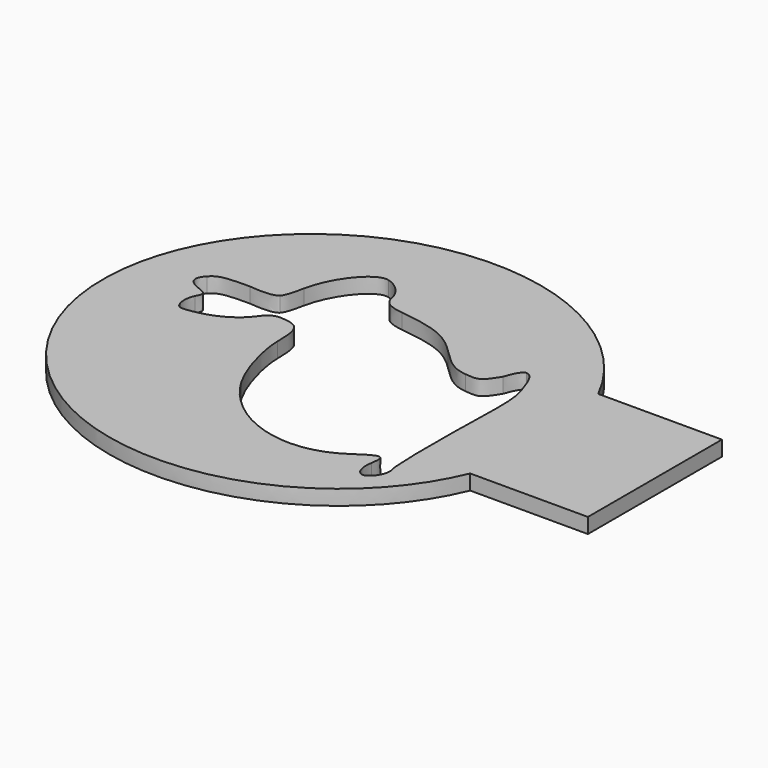
from build123d import *

# Parameters (mm, degrees)
EXTRUDE_DEPTH    = 2.25
EXTRUDE001_DEPTH = 2.25


with BuildPart() as extrude_body:
    # path2421 → Extrude (new body)
    with BuildSketch(Plane(origin=(32.471484, -37.678158, 0), x_dir=(0, -1, 0), z_dir=(0, 0, -1))):
        with BuildLine():
            add(Edge.make_bspline(
                [(19.264691, -23.428875), (21.168506, -22.095378), (19.882052, -20.613536), (17.198593, -21.049002)],
                knots=[0, 0, 0, 0, 1, 1, 1, 1], degree=3))
            add(Edge.make_bspline(
                [(17.198593, -21.049002), (14.811033, -21.436445), (14.78147, -20.89433), (17.013261, -17.65053)],
                knots=[0, 0, 0, 0, 1, 1, 1, 1], degree=3))
            add(Edge.make_bspline(
                [(17.013261, -17.65053), (21.648679, -10.913189), (18.779043, -1.218364), (10.74495, 3.526421)],
                knots=[0, 0, 0, 0, 1, 1, 1, 1], degree=3))
            add(Edge.make_bspline(
                [(10.74495, 3.526421), (7.901826, 5.205512), (3.046317, 6.622463), (0.061016, 6.644235)],
                knots=[0, 0, 0, 0, 1, 1, 1, 1], degree=3))
            add(Edge.make_bspline(
                [(0.061016, 6.644235), (-3.60211, 6.67095), (-4.482821, 7.160145), (-4.7335, 9.307351)],
                knots=[0, 0, 0, 0, 1, 1, 1, 1], degree=3))
            add(Edge.make_bspline(
                [(-4.7335, 9.307351), (-4.922772, 10.928654), (-4.674129, 11.494503), (-3.338526, 12.48196)],
                knots=[0, 0, 0, 0, 1, 1, 1, 1], degree=3))
            add(Edge.make_bspline(
                [(-3.338526, 12.48196), (-1.433746, 13.890222), (-0.195973, 16.085383), (0.35782, 19.037358)],
                knots=[0, 0, 0, 0, 1, 1, 1, 1], degree=3))
            add(Edge.make_bspline(
                [(0.35782, 19.037358), (0.697559, 20.848345), (0.581256, 21.209202), (-0.447396, 21.535687)],
                knots=[0, 0, 0, 0, 1, 1, 1, 1], degree=3))
            add(Edge.make_bspline(
                [(-0.447396, 21.535687), (-1.108666, 21.745563), (-2.188612, 21.628867), (-2.847279, 21.276362)],
                knots=[0, 0, 0, 0, 1, 1, 1, 1], degree=3))
            add(Edge.make_bspline(
                [(-2.847279, 21.276362), (-3.870577, 20.728711), (-4.123917, 20.84342), (-4.588209, 22.064589)],
                knots=[0, 0, 0, 0, 1, 1, 1, 1], degree=3))
            add(Edge.make_bspline(
                [(-4.588209, 22.064589), (-5.359215, 24.092484), (-6.273519, 24.464333), (-7.580484, 23.281542)],
                knots=[0, 0, 0, 0, 1, 1, 1, 1], degree=3))
            add(Edge.make_bspline(
                [(-7.580484, 23.281542), (-8.513051, 22.437579), (-8.71357, 21.464712), (-8.71357, 17.784037)],
                knots=[0, 0, 0, 0, 1, 1, 1, 1], degree=3))
            add(Edge.make_bspline(
                [(-8.71357, 17.784037), (-8.71357, 17.784037), (-8.286632, 14.42424), (-9.094313, 13.616561)],
                knots=[0, 0, 0, 0, 1, 1, 1, 1], degree=3))
            add(Edge.make_bspline(
                [(-9.094313, 13.616561), (-9.703504, 13.007371), (-12.222735, 12.587156), (-12.222735, 12.587156)],
                knots=[0, 0, 0, 0, 1, 1, 1, 1], degree=3))
            add(Edge.make_bspline(
                [(-12.222735, 12.587156), (-16.467676, 11.710382), (-20.594894, 8.342515), (-20.037321, 6.210356)],
                knots=[0, 0, 0, 0, 1, 1, 1, 1], degree=3))
            add(Edge.make_bspline(
                [(-20.037321, 6.210356), (-19.637463, 4.681302), (-18.172747, 3.326003), (-16.610695, 3.039711)],
                knots=[0, 0, 0, 0, 1, 1, 1, 1], degree=3))
            add(Edge.make_bspline(
                [(-16.610695, 3.039711), (-15.684199, 2.869901), (-14.908116, 2.206371), (-14.619857, -0.149047)],
                knots=[0, 0, 0, 0, 1, 1, 1, 1], degree=3))
            add(Edge.make_bspline(
                [(-14.619857, -0.149047), (-14.010161, -5.13111), (-13.378855, -7.486215), (-10.301628, -10.483525)],
                knots=[0, 0, 0, 0, 1, 1, 1, 1], degree=3))
            add(Edge.make_bspline(
                [(-10.301628, -10.483525), (-8.018451, -12.707408), (-7.323574, -13.822149), (-7.119567, -15.588256)],
                knots=[0, 0, 0, 0, 1, 1, 1, 1], degree=3))
            add(Edge.make_bspline(
                [(-7.119567, -15.588256), (-6.874042, -17.71383), (-7.004946, -17.940192), (-9.327677, -19.406466)],
                knots=[0, 0, 0, 0, 1, 1, 1, 1], degree=3))
            add(Edge.make_bspline(
                [(-9.327677, -19.406466), (-9.327677, -19.406466), (-11.796783, -20.144999), (-11.796783, -20.965146)],
                knots=[0, 0, 0, 0, 1, 1, 1, 1], degree=3))
            add(Edge.make_bspline(
                [(-11.796783, -20.965146), (-11.796783, -22.031229), (-9.2678, -22.781243), (-9.2678, -22.781243)],
                knots=[0, 0, 0, 0, 1, 1, 1, 1], degree=3))
            add(Edge.make_bspline(
                [(-9.2678, -22.781243), (-5.988234, -24.148556), (-4.425973, -23.827486), (5.325767, -23.659366)],
                knots=[0, 0, 0, 0, 1, 1, 1, 1], degree=3))
            add(Edge.make_bspline(
                [(5.325767, -23.659366), (10.956125, -23.562301), (16.097328, -23.679714), (16.750667, -23.920311)],
                knots=[0, 0, 0, 0, 1, 1, 1, 1], degree=3))
            add(Edge.make_bspline(
                [(16.750667, -23.920311), (17.50748, -24.198997), (18.419803, -24.020661), (19.264691, -23.428875)],
                knots=[0, 0, 0, 0, 1, 1, 1, 1], degree=3))
        make_face()
    extrude(amount=-EXTRUDE_DEPTH)


with BuildPart() as cut:
    # path2987 → Extrude001 (new body)
    with BuildSketch(Plane(origin=(40.935451, -38.25434, 0), x_dir=(0, 1, 0), z_dir=(0, 0, 1))):
        with BuildLine():
            add(Edge.make_bspline(
                [(31.472187, 7.633229), (31.472187, 25.930051), (17.386391, 40.759062), (0.00441, 40.759062)],
                knots=[0, 0, 0, 0, 1, 1, 1, 1], degree=3))
            add(Edge.make_bspline(
                [(0.00441, 40.759062), (-17.377572, 40.759062), (-31.472188, 25.930051), (-31.472188, 7.633229)],
                knots=[0, 0, 0, 0, 1, 1, 1, 1], degree=3))
            add(Edge.make_bspline(
                [(-31.472188, 7.633229), (-31.472188, -6.385533), (-23.200071, -18.370199), (-11.513785, -23.208368)],
                knots=[0, 0, 0, 0, 1, 1, 1, 1], degree=3))
            add(Edge.make_bspline(
                [(-11.513785, -23.208368), (-11.513785, -40.759062)],
                knots=[0, 0, 62.1875, 62.1875], degree=1))
            add(Edge.make_bspline(
                [(-11.513785, -40.759062), (0.992187, -40.759062)],
                knots=[0, 0, 44.3125, 44.3125], degree=1))
            add(Edge.make_bspline(
                [(0.992187, -40.759062), (13.462882, -40.759062)],
                knots=[0, 0, 44.1875, 44.1875], degree=1))
            add(Edge.make_bspline(
                [(13.462882, -40.759062), (13.462882, -22.317604)],
                knots=[0, 0, 65.34375, 65.34375], degree=1))
            add(Edge.make_bspline(
                [(13.462882, -22.317604), (24.109727, -17.006018), (31.472187, -5.593079), (31.472187, 7.633229)],
                knots=[0, 0, 0, 0, 1, 1, 1, 1], degree=3))
        make_face()
    extrude(amount=EXTRUDE001_DEPTH)

    # Cut: cut Extrude body
    add(extrude_body.part, mode=Mode.SUBTRACT)


solid = cut.part
